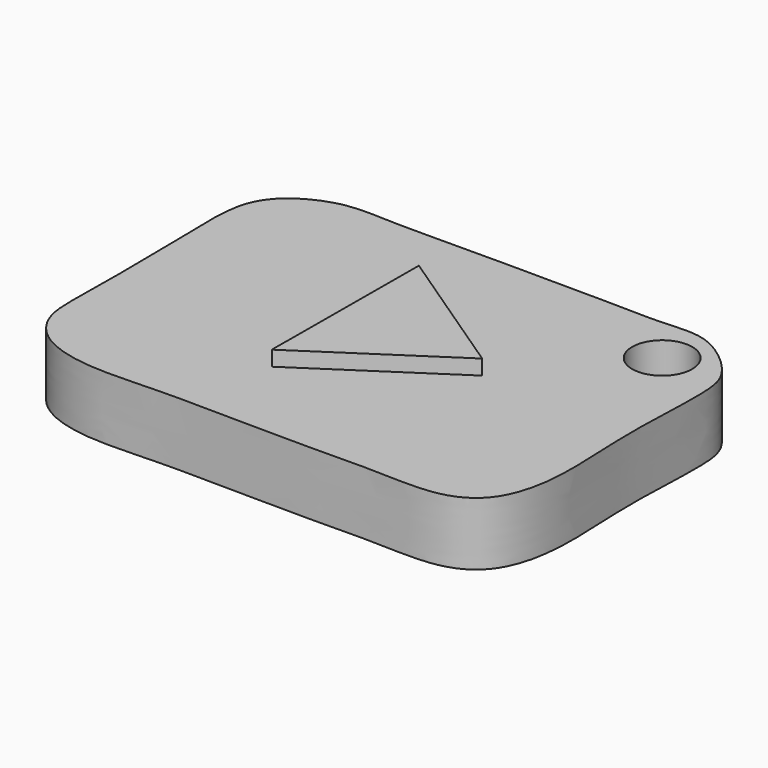
from build123d import *

# Parameters (mm, degrees)
F2_DEPTH = 5.334
F3_DEPTH = 6.604
F5_D     = 5.08


with BuildPart() as f2:
    # F0 (on Top) → F2 (new body)
    with BuildSketch(Plane.XY):
        with BuildLine():
            add(Edge.make_bspline(
                [(-53.3415041864, 36.6012752056), (-52.1364867779, 36.8129704951), (-49.5029419951, 36.5908155972), (-43.7860719074, 36.6965233509), (-37.8672433567, 36.6637460657), (-31.8523555934, 36.6787203282), (-26.4221483424, 36.469347093), (-22.6964602871, 37.0152793928), (-18.6673782644, 33.6448654095), (-17.9831495308, 30.7384956964), (-18.4593282656, 23.8170486276), (-18.1727376202, 18.9319152827), (-18.0622951258, 13.8677690235), (-19.341943296, 9.8535972732), (-22.584588167, 7.8496536835), (-28.1677872695, 8.2244280238), (-32.6718361262, 8.0704220928), (-40.746532562, 8.1646740199), (-46.7452184587, 8.246026764), (-52.3330493652, 7.8778330562), (-56.7731983651, 9.0598644944), (-59.0514358958, 12.0083995822), (-58.8617229425, 16.2082236612), (-58.8891788464, 23.8035586734), (-59.0030403826, 28.1126676165), (-59.0448293786, 32.7935064232), (-56.8494297468, 35.4135868644), (-54.5210818438, 36.3940491259), (-53.3415041864, 36.6012752056)],
                knots=[0, 0, 0, 0, 0.0340510607, 0.0758161954, 0.1188588592, 0.1621528536, 0.2027621887, 0.2362374625, 0.2739671283, 0.3041607008, 0.3496347654, 0.3895716146, 0.4286641366, 0.4634973402, 0.4960395661, 0.5365160197, 0.5746951267, 0.6240535508, 0.667817198, 0.7090573296, 0.7457628544, 0.7772763624, 0.8129841923, 0.8612434116, 0.8987843443, 0.9353728465, 0.966667809, 1, 1, 1, 1], degree=3))
        make_face()
    extrude(amount=F2_DEPTH)

    # F1 (on face) → F3 (join)
    with BuildSketch(Plane.XY):
        Polygon((-31.0821961612, 23.2325568795), (-42.6455251873, 30.9942457825), (-42.7247285843, 15.5500704423), align=None)
    extrude(amount=F3_DEPTH)

    # F5 (through all)
    with Locations(Plane.XY.offset(5.334)):
        with Locations((-23.3807004988, 32.6263010502)):
            Hole(F5_D / 2)


solid = f2.part
